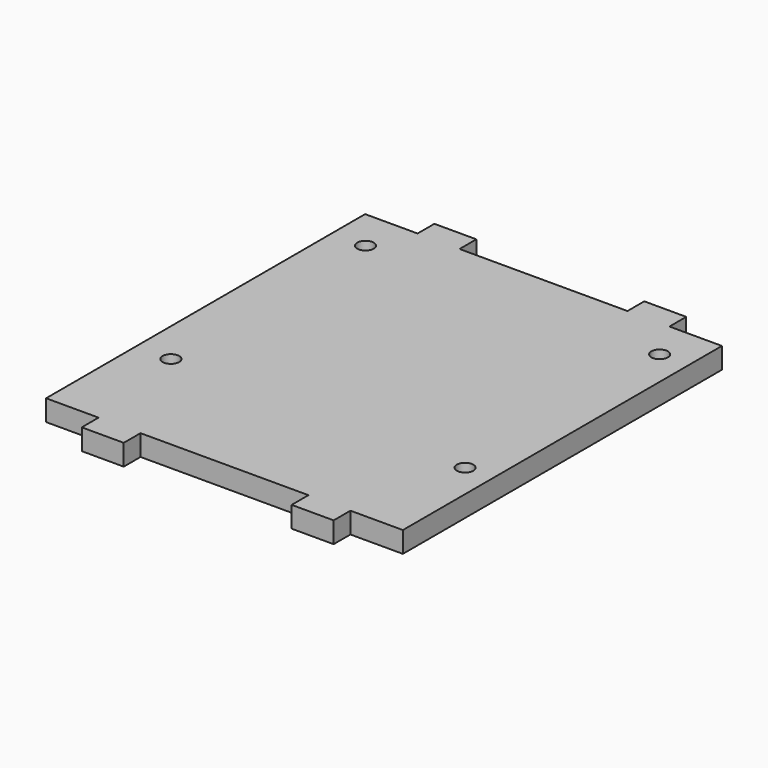
from build123d import *

# Parameters (mm, degrees)
F0_R     = 2.5
F0_W     = 12.7
F0_H     = 6.35
F1_DEPTH = 6.35


with BuildPart() as f1:
    # F0 (on Top) → F1 (new body)
    with BuildSketch(Plane.XY):
        Polygon((0, 120.65), (0, 0), (15.875, 0), (28.575, 0), (79.375, 0), (92.075, 0), (107.95, 0), (107.95, 120.65), (92.075, 120.65), (79.375, 120.65), (28.575, 120.65), (15.875, 120.65), align=None)
        with Locations((10.491693, 34.096739)):
            Circle(F0_R, mode=Mode.SUBTRACT)
        with Locations((99.491693, 34.096739)):
            Circle(F0_R, mode=Mode.SUBTRACT)
        with Locations((10.16, 108.095996)):
            Circle(F0_R, mode=Mode.SUBTRACT)
        with Locations((99.16, 108.095996)):
            Circle(F0_R, mode=Mode.SUBTRACT)
        with Locations((22.225, 123.825)):
            Rectangle(F0_W, F0_H)
        with Locations((85.725, 123.825)):
            Rectangle(F0_W, F0_H)
        with Locations((85.725, -3.175)):
            Rectangle(F0_W, F0_H)
        with Locations((22.225, -3.175)):
            Rectangle(F0_W, F0_H)
    extrude(amount=F1_DEPTH)


solid = f1.part
